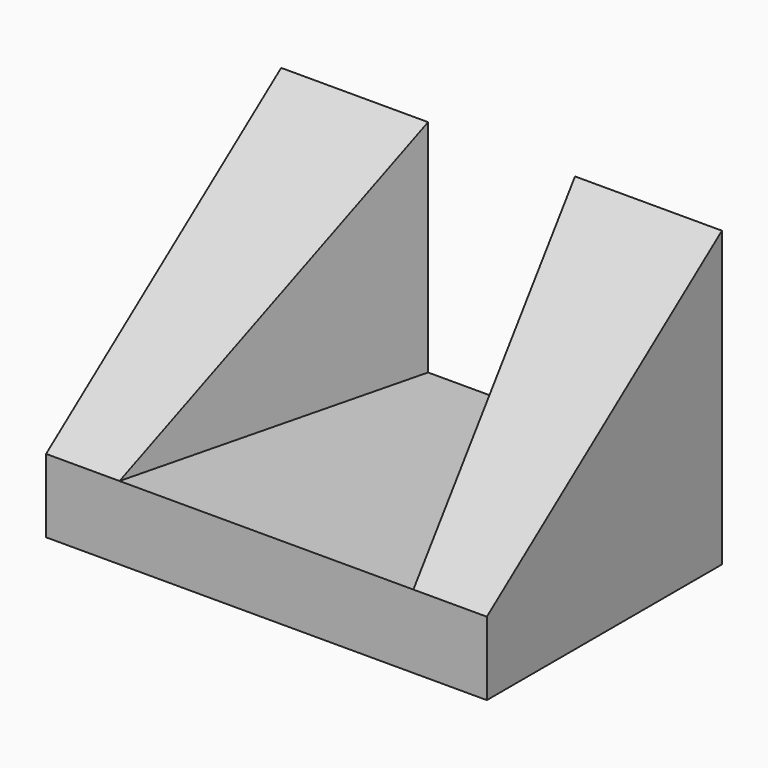
from build123d import *

# Parameters (mm, degrees)
F0_W     = 60
F0_H     = 40
F1_DEPTH = 40
F3_DEPTH = 30
F5_DEPTH = 60


with BuildPart() as f1:
    # F0 (on Top) → F1 (new body)
    with BuildSketch(Plane.XY):
        with Locations((30, 20)):
            Rectangle(F0_W, F0_H)
    extrude(amount=F1_DEPTH)

    # F2 (on face) → F3 (cut)
    with BuildSketch(Plane.XY.offset(40)):
        Polygon((20, 40), (10, 0), (50, 0), (40, 40), align=None)
    extrude(amount=-F3_DEPTH, mode=Mode.SUBTRACT)

    # F4 (on face) → F5 (cut)
    with BuildSketch(Plane.YZ.offset(60)):
        Polygon((0, 10), (40, 40), (0, 40), align=None)
    extrude(amount=-F5_DEPTH, mode=Mode.SUBTRACT)


solid = f1.part
